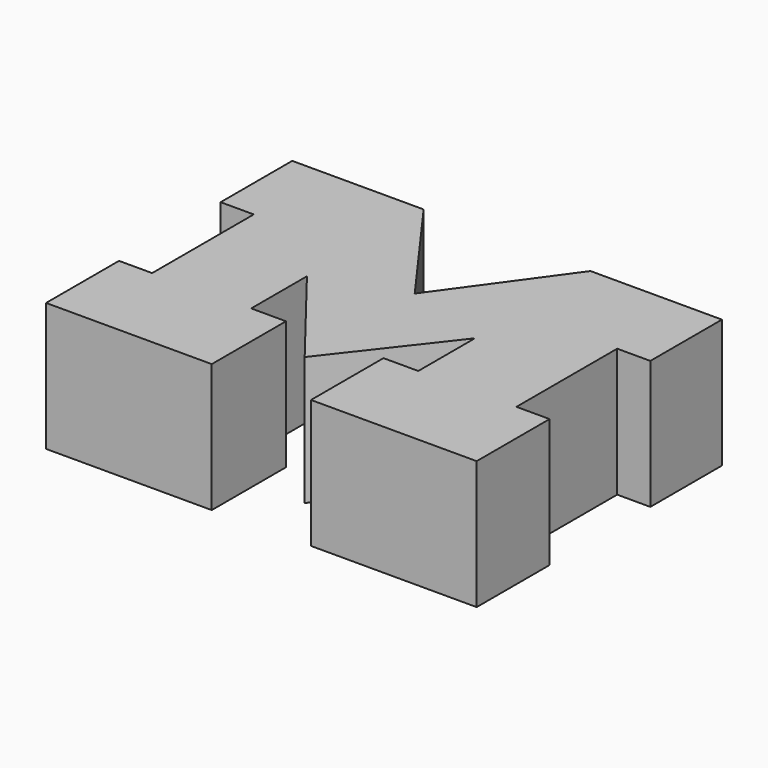
from build123d import *

# Parameters (mm, degrees)
F1_DEPTH = 25


with BuildPart() as f1:
    # F0 (on Top) → F1 (new body)
    with BuildSketch(Plane.XY):
        Polygon((-16.22756, 25.746491), (-41.792773, 25.746491), (-41.792773, 8.340391), (-35.346068, 8.340391), (-35.346068, -16.371973), (-41.792773, -16.371973), (-41.792773, -34.100406), (-9.568204, -34.100406), (-9.568204, -16.049638), (-16.337245, -16.049638), (-16.337245, -2.494283), (0, -23.463346), (16.337245, -2.494283), (16.337245, -16.264526), (9.568204, -16.264526), (9.568204, -33.885514), (41.792773, -33.885514), (41.792773, -16.157081), (35.346068, -16.157081), (35.346068, 8.340391), (41.792773, 8.340391), (41.792773, 25.746491), (16.22756, 25.746491), (0, 3.290473), align=None)
    extrude(amount=F1_DEPTH)


solid = f1.part
